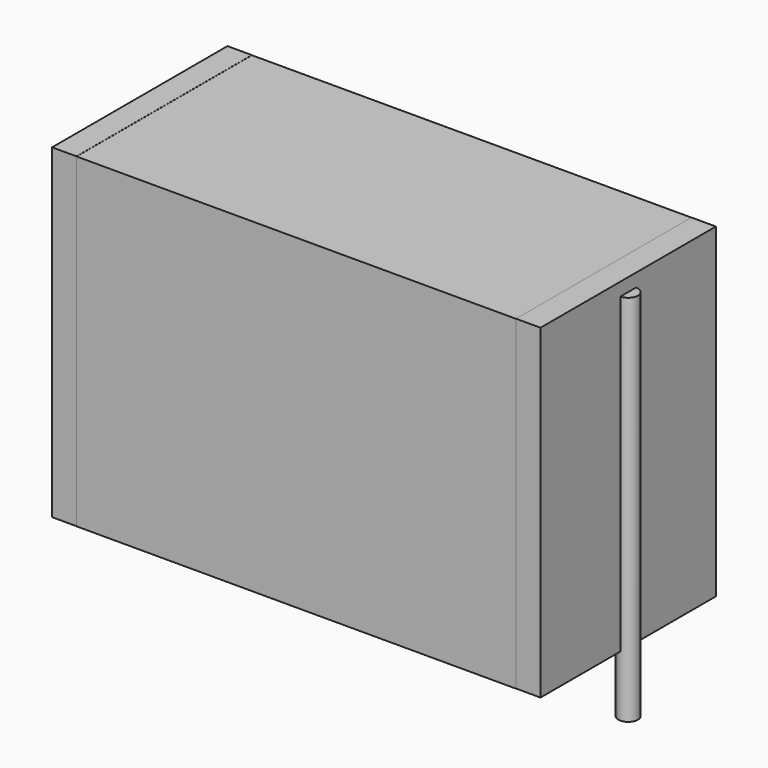
from build123d import *

# Parameters (mm, degrees)
SKETCH_W          = 20.25
SKETCH_H          = 10.1
PAD_DEPTH         = 15
SKETCH001_R       = 0.45
PAD001_DEPTH      = 14
PAD001_DEPTH_BACK = 3.2
SKETCH002_W       = 1.125
SKETCH002_H       = 10.1
PAD002_DEPTH      = 15


with BuildPart() as pad:
    # Sketch → Pad (new body)
    with BuildSketch(Plane.XY.offset(0.1)):
        with Locations((11.25, 0)):
            Rectangle(SKETCH_W, SKETCH_H)
    extrude(amount=PAD_DEPTH)


with BuildPart() as pad001:
    # Sketch001 → Pad001 (new body, two sides)
    with BuildSketch(Plane.XY.offset(0.5)) as pad001_sk:
        Circle(SKETCH001_R)
        with Locations((22.5, 0)):
            Circle(SKETCH001_R)
    extrude(amount=PAD001_DEPTH)
    extrude(pad001_sk.sketch, amount=-PAD001_DEPTH_BACK)


with BuildPart() as pad002:
    # Sketch002 → Pad002 (new body)
    with BuildSketch(Plane.XY.offset(0.105)):
        with Locations((0.5625, 0)):
            Rectangle(SKETCH002_W, SKETCH002_H)
        with Locations((21.9375, 0)):
            Rectangle(SKETCH002_W, SKETCH002_H)
    extrude(amount=PAD002_DEPTH)


solid = Compound([pad.part, pad001.part, pad002.part])
